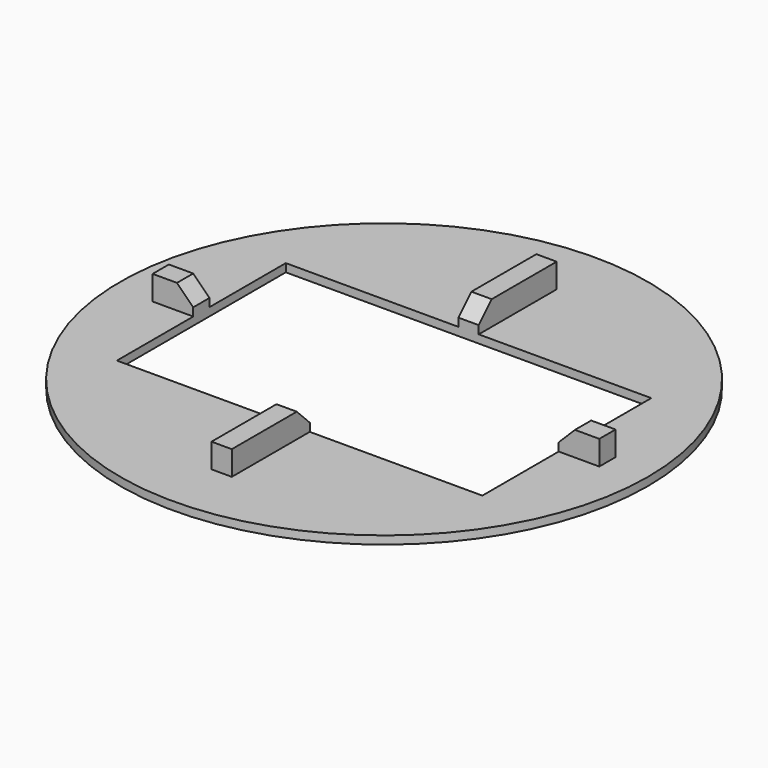
from build123d import *

# Parameters (mm, degrees)
F0_R     = 32.5
F0_W     = 45
F0_H     = 26
F1_DEPTH = 1
F2_W     = 2.5
F2_H     = 12
F2_W_2   = 5
F2_H_2   = 2.5
F3_DEPTH = 3
F4_SIZE  = 2


with BuildPart() as f1:
    # F0 (on Top) → F1 (new body)
    with BuildSketch(Plane.XY):
        Circle(F0_R)
        Rectangle(F0_W, F0_H, mode=Mode.SUBTRACT)
    extrude(amount=F1_DEPTH)

    # F2 (on face) → F3 (join)
    with BuildSketch(Plane.XY.offset(1)):
        with Locations((0, 19)):
            Rectangle(F2_W, F2_H)
        with Locations((0, -19)):
            Rectangle(F2_W, F2_H)
        with Locations((-25, 0)):
            Rectangle(F2_W_2, F2_H_2)
        with Locations((25, 0)):
            Rectangle(F2_W_2, F2_H_2)
    extrude(amount=F3_DEPTH)

    # F4
    f4_edges = [f1.edges().sort_by_distance(p)[0] for p in [
        (-22.5, 0, 4),
        (22.5, 0, 4),
        (0, 13, 4),
        (0, -13, 4),
    ]]
    chamfer(f4_edges, length=F4_SIZE)


solid = f1.part
